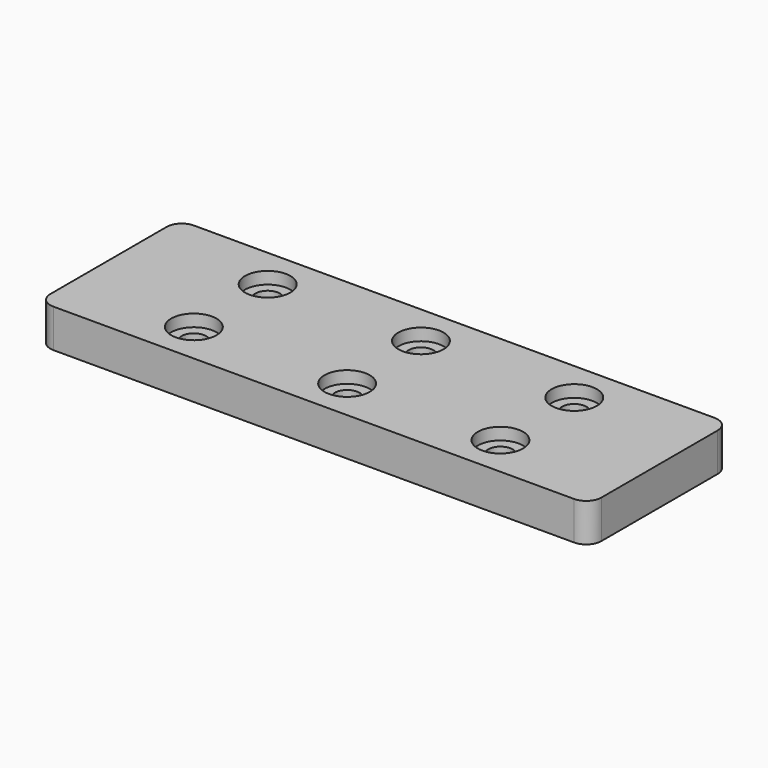
from build123d import *

# Parameters (mm, degrees)
F1_W     = 182.603597641
F1_H     = 58.2040771842
F3_DEPTH = 12.7
F2_R     = 4.06875
F4_DEPTH = 12.701
F5_R     = 7.5
F6_DEPTH = 4
F7_R     = 7.5
F8_DEPTH = 4
F9_R     = 5


with BuildPart() as f3:
    # F1 (on Top) → F3 (new body)
    with BuildSketch(Plane.XY):
        Rectangle(F1_W, F1_H)
    extrude(amount=F3_DEPTH)

    # F2 (on Top) → F4 (cut, through all)
    with BuildSketch(Plane.XY):
        with Locations((-50.8, 15.3108183295)):
            Circle(F2_R)
        with Locations((0, 15.3108183295)):
            Circle(F2_R)
        with Locations((50.8, 15.3108183295)):
            Circle(F2_R)
        with Locations((50.8, -15.2709130198)):
            Circle(F2_R)
        with Locations((0, -15.2709130198)):
            Circle(F2_R)
        with Locations((-50.8, -15.2709130198)):
            Circle(F2_R)
    extrude(amount=F4_DEPTH, mode=Mode.SUBTRACT)

    # F5 (on face) → F6 (cut)
    with BuildSketch(Plane.XY.offset(12.7)):
        with Locations((-50.8, 15.3108183295)):
            Circle(F5_R)
        with Locations((0, -15.2709130198)):
            Circle(F5_R)
        with Locations((50.8, 15.3108183295)):
            Circle(F5_R)
        with Locations((-50.8, -15.2709130198)):
            Circle(F5_R)
        with Locations((0, 15.3108183295)):
            Circle(F5_R)
        with Locations((50.8, -15.2709130198)):
            Circle(F5_R)
    extrude(amount=-F6_DEPTH, mode=Mode.SUBTRACT)

    # F7 (on face) → F8 (cut)
    with BuildSketch(Plane(origin=(0, 0, 0), x_dir=(1, 0, 0), z_dir=(0, 0, -1))):
        with Locations((0, -15.3108183295)):
            Circle(F7_R)
        with Locations((-50.8, 15.2709130198)):
            Circle(F7_R)
        with Locations((50.8, 15.2709130198)):
            Circle(F7_R)
    extrude(amount=-F8_DEPTH, mode=Mode.SUBTRACT)

    # F9
    f9_edges = [f3.edges().sort_by_distance(p)[0] for p in [
        (-91.301799, -29.102039, 6.35),
        (-91.301799, 29.102039, 6.35),
        (91.301799, 29.102039, 6.35),
        (91.301799, -29.102039, 6.35),
    ]]
    fillet(f9_edges, radius=F9_R)


solid = f3.part
